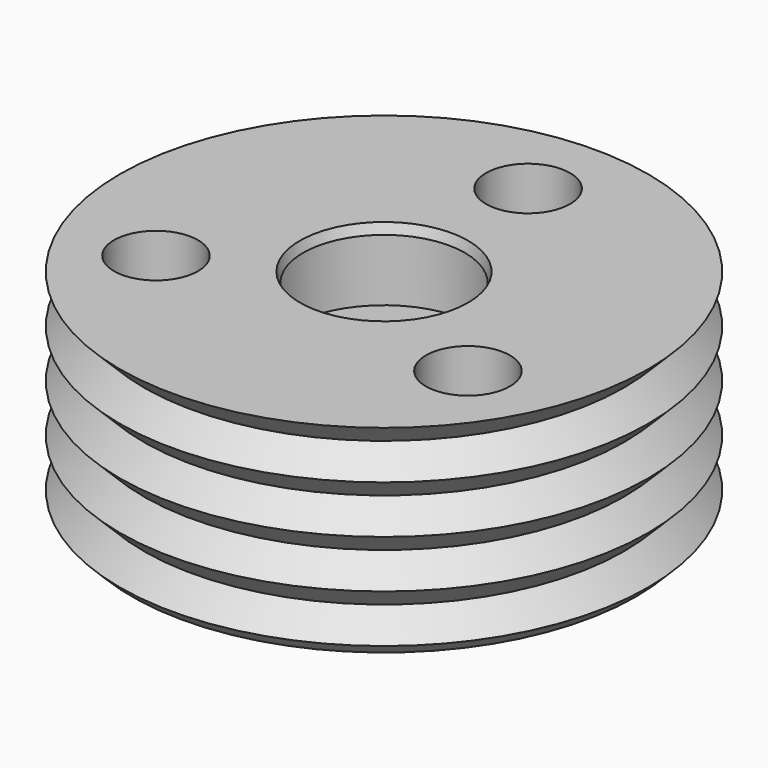
from build123d import *

# Parameters (mm, degrees)
CYLINDER_R     = 1.4
CYLINDER_DEPTH = 10
ARRAY001_COUNT = 3
SKETCH018_W    = 3.15
SKETCH018_H    = 2.3
SKETCH002_W    = 5
SKETCH002_H    = 6.8
ARRAY_Z_COUNT  = 6
ARRAY_Z_PITCH  = 1.6


with BuildPart() as boltholes:
    # Cylinder → Cylinder (new body)
    with BuildSketch(Plane(origin=(0, 6, -1), x_dir=(1, 0, 0), z_dir=(0, 0, 1))):
        Circle(CYLINDER_R)
    extrude(amount=CYLINDER_DEPTH)

    # Array001: BoltHoles ×3 about axis
    array001_axis = Axis((0, 0, 0), (0, 0, 1))


with BuildPart() as boltholes_1:
    add(boltholes.part)
    for i in range(1, ARRAY001_COUNT):
        add(boltholes.part.rotate(array001_axis, i * 360 / ARRAY001_COUNT))


with BuildPart() as obj1:
    # Sketch018 → Revolution007 (revolve)
    with BuildSketch(Plane.XZ):
        with Locations((1.575, 5.7267413876)):
            Rectangle(SKETCH018_W, SKETCH018_H)
    revolve(axis=Axis((0, 0, 0), (0, 0, 1)))


with BuildPart() as obj2:
    # Sketch007 → Revolution006 (revolve)
    with BuildSketch(Plane.XZ):
        with BuildLine():
            ThreePointArc((1.5, 1.7955317108), (0.867020761, 2.4322916436), (0, 2.6655317108))
            Line((0, 2.6655317108), (0, 0.7955317108))
            Line((0, 0.7955317108), (1.5, 0.7955317108))
            Line((1.5, 1.7955317108), (1.5, 0.7955317108))
        make_face()
    revolve(axis=Axis((0, 0, 0), (0, 0, 1)))


with BuildPart() as obj3:
    # Sketch002 → Revolution002 (revolve)
    with BuildSketch(Plane.XZ):
        with Locations((7.5, 3.8)):
            Rectangle(SKETCH002_W, SKETCH002_H)
    revolve(axis=Axis((0, 0, 0), (0, 0, 1)))


with BuildPart() as innergroovetool:
    # Sketch001 → Revolution001 (revolve)
    with BuildSketch(Plane.XZ):
        Polygon((4, 8), (4, 6.4), (8, 6.4), (8.8, 7.2), (8, 8), align=None)
    revolve(axis=Axis((0, 0, 0), (0, 0, 1)))

    # Array Z: InnerGrooveTool ×6


with BuildPart() as innergroovetool_1:
    add(innergroovetool.part)
    with Locations(*[(0, 0, -i * ARRAY_Z_PITCH) for i in range(1, ARRAY_Z_COUNT)]):
        add(innergroovetool.part)

    # Common: intersect obj3
    add(obj3.part, mode=Mode.INTERSECT)


with BuildPart() as boltholes001:
    # Sketch → Revolution (revolve)
    with BuildSketch(Plane.XZ):
        Polygon((1.2, 0.4), (8, 0.4), (8, 7.2), (2.8, 7.2), (1.2, 2.2), align=None)
    revolve(axis=Axis((0, 0, 0), (0, 0, 1)))

    # Fusion001: union InnerGrooveTool
    add(innergroovetool_1.part)

    # Cut: cut obj2
    add(obj2.part, mode=Mode.SUBTRACT)

    # Cut003: cut obj1
    add(obj1.part, mode=Mode.SUBTRACT)

    # Cut001: cut BoltHoles
    add(boltholes_1.part, mode=Mode.SUBTRACT)


solid = boltholes001.part
